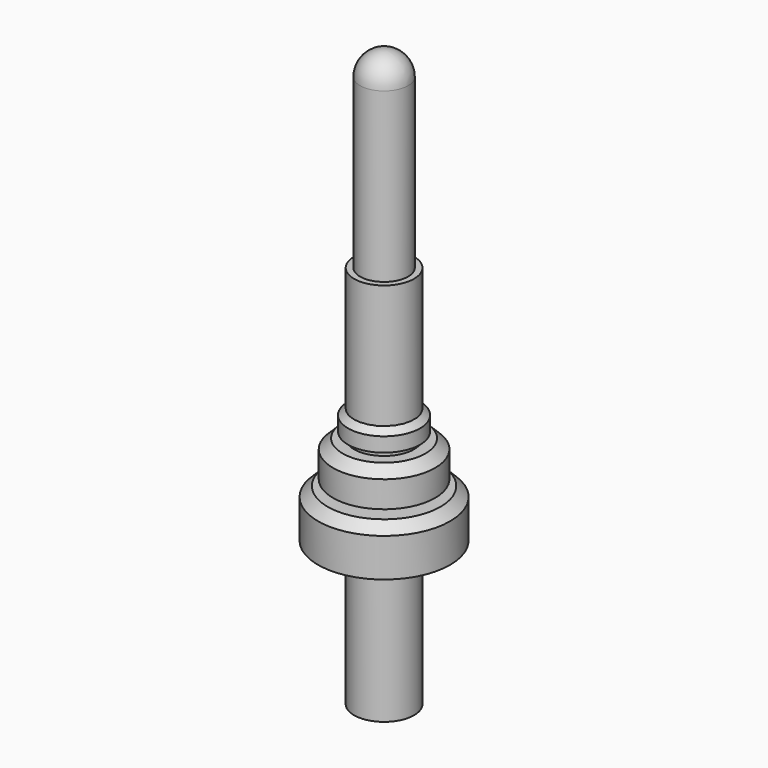
from build123d import *

# Parameters (mm, degrees)
F0_R      = 12.7
F1_DEPTH  = 304.8
F5_R      = 34.925
F8_DEPTH  = 25.4
F6_R      = 26.9875
F9_DEPTH  = 19.05
F7_R      = 19.05
F0_R_2    = 15.875
F10_DEPTH = 12.7
F11_R     = 12.7
F12_SIZE  = 5.08
F13_DEPTH = 203.2


with BuildPart() as f1:
    # F0 (on Top) → F1 (new body)
    with BuildSketch(Plane.XY):
        Circle(F0_R)
    extrude(amount=F1_DEPTH)

    # F5 (on offset) → F8 (join)
    with BuildSketch(Plane.XY.offset(76.2)):
        Circle(F5_R)
    extrude(amount=F8_DEPTH)

    # F6 (on offset) → F9 (join)
    with BuildSketch(Plane.XY.offset(104.775)):
        Circle(F6_R)
    extrude(amount=F9_DEPTH)

    # F7 (on offset) + F0 (on Top) → F10 (join)
    with BuildSketch(Plane.XY.offset(127)):
        Circle(F7_R)
    with BuildSketch(Plane.XY):
        Circle(F0_R_2)
        Circle(F0_R, mode=Mode.SUBTRACT)
    extrude(amount=F10_DEPTH)

    # F11
    f11_edges = [f1.edges().sort_by_distance(p)[0] for p in [
        (-12.7, 0, 304.8),
    ]]
    fillet(f11_edges, radius=F11_R)

    # F12
    f12_edges = [f1.edges().sort_by_distance(p)[0] for p in [
        (-19.05, 0, 139.7),
        (-26.9875, 0, 123.825),
        (-34.925, 0, 101.6),
    ]]
    chamfer(f12_edges, length=F12_SIZE)


with BuildPart() as f13:
    # F0 (on Top) → F13 (new body)
    with BuildSketch(Plane.XY):
        Circle(F0_R_2)
        Circle(F0_R, mode=Mode.SUBTRACT)
    extrude(amount=F13_DEPTH)


solid = Compound([f1.part, f13.part])
